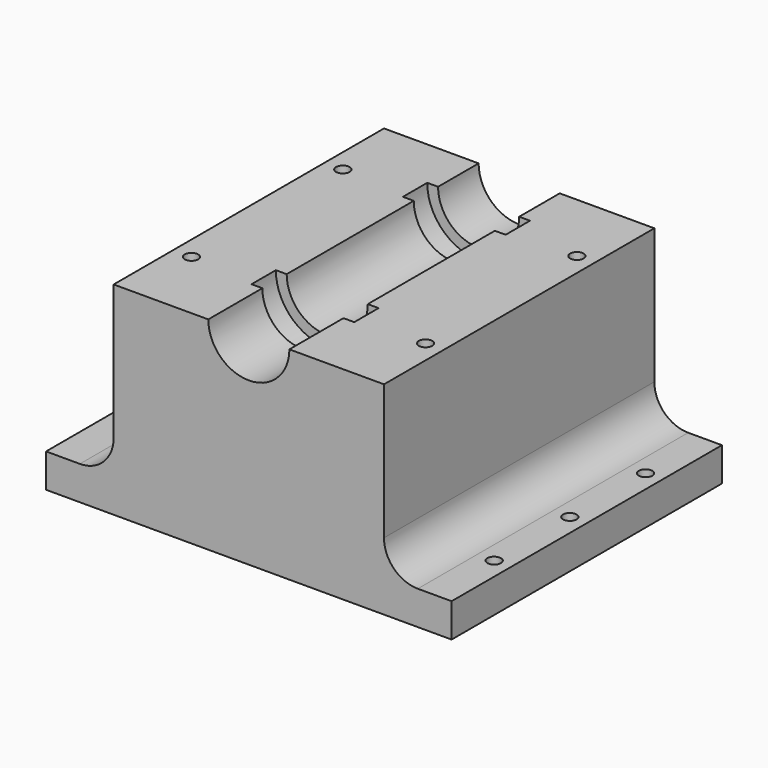
from build123d import *

# Parameters (mm, degrees)
F0_W      = 60
F0_H      = 50
F1_DEPTH  = 30
F3_R      = 6
F4_DEPTH  = 90
F6_R      = 7.6
F7_DEPTH  = 4.5
F8_START  = -28
F8_DEPTH  = 4.5
F10_R     = 1
F11_DEPTH = 25
F12_R     = 1
F13_DEPTH = 5


with BuildPart() as f1:
    # F0 (on Top) → F1 (new body)
    with BuildSketch(Plane.XY):
        with Locations((-8.3905272186, 29.4691909945)):
            Rectangle(F0_W, F0_H)
    extrude(amount=F1_DEPTH)

    # F3 (on face) → F4 (cut)
    with BuildSketch(Plane.XZ.offset(-4.4691909945)):
        with Locations((-8.3905272186, 30)):
            Circle(F3_R)
        with BuildLine():
            Line((-28.3905272186, 10), (-28.3905272186, 30))
            Line((-28.3905272186, 30), (-38.3905272186, 30))
            Line((-38.3905272186, 30), (-38.3905272186, 5))
            Line((-38.3905272186, 5), (-33.3905272186, 5))
            ThreePointArc((-33.3905272186, 5), (-29.8549933126, 6.4644660941), (-28.3905272186, 10))
        make_face()
        with BuildLine():
            Line((21.6094727814, 5), (21.6094727814, 30))
            Line((21.6094727814, 30), (11.6094727814, 30))
            Line((11.6094727814, 30), (11.6094727814, 10))
            ThreePointArc((11.6094727814, 10), (13.0739388755, 6.4644660941), (16.6094727814, 5))
            Line((16.6094727814, 5), (21.6094727814, 5))
        make_face()
    extrude(amount=-F4_DEPTH, mode=Mode.SUBTRACT)

    # F6 (on offset) → F7 (cut)
    with BuildSketch(Plane.XZ.offset(-14.4691909945)):
        with Locations((-8.3905272186, 30)):
            Circle(F6_R)
    extrude(amount=-F7_DEPTH, mode=Mode.SUBTRACT)

    # F6 (on offset) → F8 (cut)
    with BuildSketch(Plane.XZ.offset(-14.4691909945).offset(F8_START)):
        with Locations((-8.3905272186, 30)):
            Circle(F6_R)
    extrude(amount=-F8_DEPTH, mode=Mode.SUBTRACT)

    # F10 (on face) → F11 (cut)
    with BuildSketch(Plane.XY.offset(5)):
        with Locations((19.1094727814, 15.4691909945)):
            Circle(F10_R)
        with Locations((19.1094727814, 43.4691909945)):
            Circle(F10_R)
        with Locations((19.1094727814, 29.4691909945)):
            Circle(F10_R)
        with Locations((-35.8905272186, 15.4691909945)):
            Circle(F10_R)
        with Locations((-35.8905272186, 29.4691909945)):
            Circle(F10_R)
        with Locations((-35.8905272186, 43.4691909945)):
            Circle(F10_R)
    extrude(amount=-F11_DEPTH, mode=Mode.SUBTRACT)

    # F12 (on face) → F13 (cut)
    with BuildSketch(Plane.XY.offset(30)):
        with Locations((8.9574727814, 43.4691909945)):
            Circle(F12_R)
        with Locations((8.9574727814, 15.4691909945)):
            Circle(F12_R)
        with Locations((-25.6856481384, 15.4691909945)):
            Circle(F12_R)
        with Locations((-25.6856481384, 43.4691909945)):
            Circle(F12_R)
    extrude(amount=-F13_DEPTH, mode=Mode.SUBTRACT)


solid = f1.part
